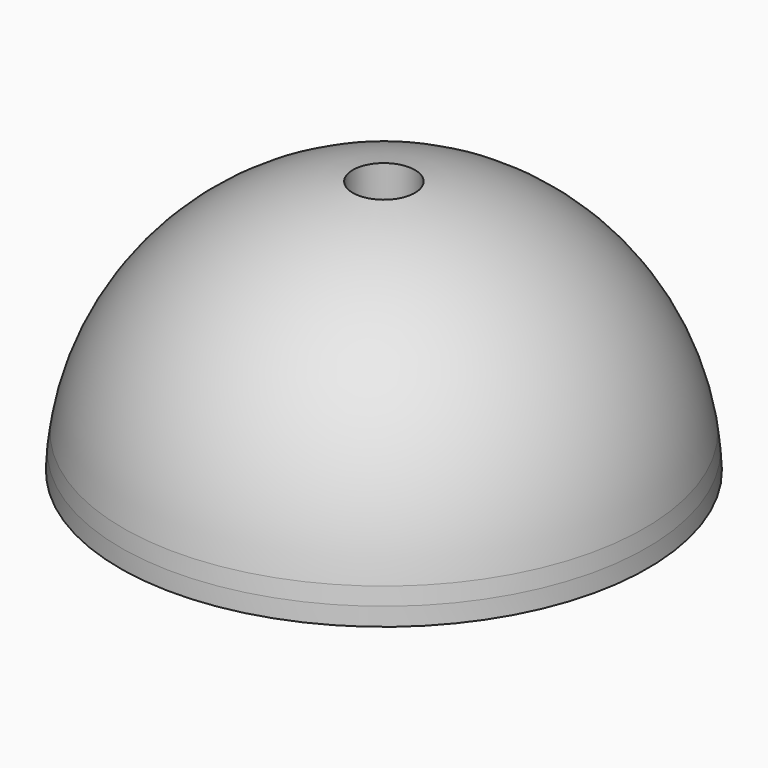
from build123d import *


with BuildPart() as f1:
    # F0 (on Front) → F1 (revolve)
    with BuildSketch(Plane.XZ):
        with BuildLine():
            ThreePointArc((-2.5, 19.1022348606), (-14.7285015996, 13.3239396782), (-21, 1.3408993961))
            Line((-21, 1.3408993961), (-21, 0))
            Line((-21, 0), (-21, -1.4155078679))
            Line((-21, -1.4155078679), (-20, -1.4155078679))
            Line((-20, -1.4155078679), (-20, -1.276968047))
            Line((-20, -1.276968047), (-19.7798779008, -1.1605625712))
            ThreePointArc((-19.7798779008, -1.1605625712), (-19.7215120339, -1.1053626098), (-19.7, -1.0279620765))
            Line((-19.7, -1.0279620765), (-19.7, -0.8797861519))
            ThreePointArc((-19.7, -0.8797861519), (-19.7236004385, -0.7990201266), (-19.7869753447, -0.7436689494))
            Line((-19.7869753447, -0.7436689494), (-20, -0.6450347927))
            Line((-20, -0.6450347927), (-19.9719204218, 0.7546835851))
            Line((-19.9719204218, 0.7546835851), (-19.5714847863, 0.7546835851))
            ThreePointArc((-19.5714847863, 0.7546835851), (-14.2355631855, 11.6969304474), (-3.5, 17.4373580286))
            Line((-3.5, 17.4373580286), (-3.5, 17.5909579977))
            Line((-3.5, 17.5909579977), (-2.5, 17.5909579977))
            Line((-2.5, 17.5909579977), (-2.5, 19.1022348606))
        make_face()
        with BuildLine():
            Line((-21, 0), (-21, 1.3408993961))
            ThreePointArc((-21, 1.3408993961), (-21.096111691, 0.6718079569), (-21.1709106225, 0))
            Line((-21.1709106225, 0), (-21, 0))
        make_face()
        with BuildLine():
            Line((-21, -1.4155078679), (-21, 0))
            Line((-21, 0), (-21.1709106225, 0))
            ThreePointArc((-21.1709106225, 0), (-21.2263950777, -0.7070254877), (-21.2582742561, -1.4155078679))
            Line((-21.2582742561, -1.4155078679), (-21, -1.4155078679))
        make_face()
        with BuildLine():
            ThreePointArc((-3.5, 17.4373580286), (-3.0009828786, 17.5205569636), (-2.5, 17.5909579977))
            Line((-2.5, 17.5909579977), (-3.5, 17.5909579977))
            Line((-3.5, 17.5909579977), (-3.5, 17.4373580286))
        make_face()
        with BuildLine():
            Line((-2.5, 14.7757632658), (-2.5, 17.5909579977))
            ThreePointArc((-2.5, 17.5909579977), (-3.0009828786, 17.5205569636), (-3.5, 17.4373580286))
            Line((-3.5, 17.4373580286), (-3.5, 13.0909579977))
            Line((-3.5, 13.0909579977), (-2.5, 13.0909579977))
            Line((-2.5, 13.0909579977), (-2.5, 14.7757632658))
        make_face()
    revolve(axis=Axis((0, 0, 4.2133438401), (0, 0, 1)))


solid = f1.part
